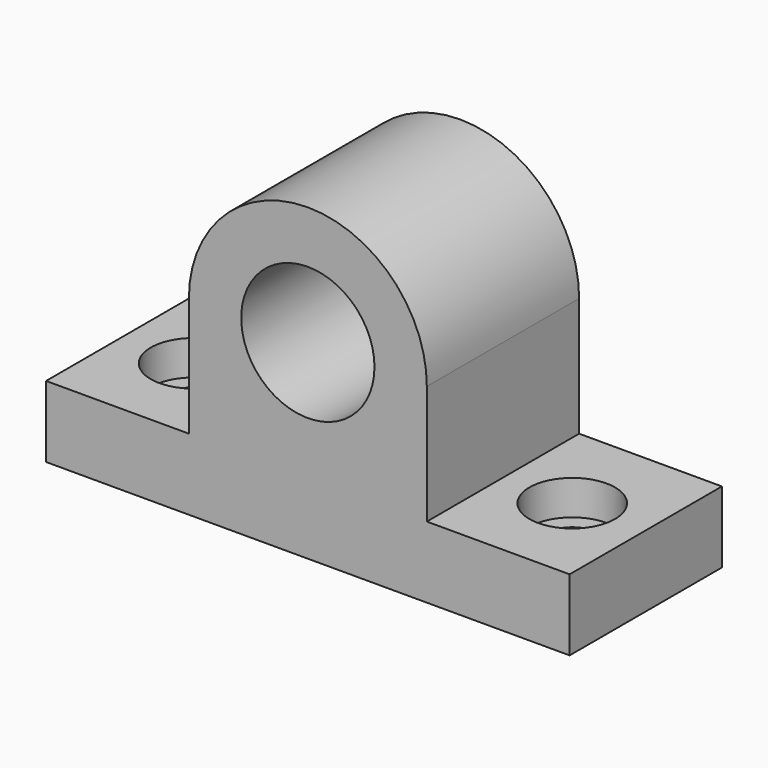
from build123d import *

# Parameters (mm, degrees)
F0_R     = 14
F1_DEPTH = 40
F2_R     = 9
F2_R_2   = 5.5
F3_DEPTH = 7.3
F4_DEPTH = 25


with BuildPart() as f1:
    # F0 (on Front) → F1 (new body)
    with BuildSketch(Plane.XZ):
        with BuildLine():
            Line((-14.553575, -34.285714), (-14.553575, -9.285714))
            ThreePointArc((-14.553575, -9.285714), (-39.553575, 15.714286), (-64.553575, -9.285714))
            Line((-64.553575, -9.285714), (-64.553575, -34.285714))
            Line((-64.553575, -34.285714), (-94.553575, -34.285714))
            Line((-94.553575, -34.285714), (-94.553575, -49.285714))
            Line((-94.553575, -49.285714), (15.446425, -49.285714))
            Line((15.446425, -49.285714), (15.446425, -34.285714))
            Line((15.446425, -34.285714), (-14.553575, -34.285714))
        make_face()
        with Locations((-39.553575, -9.285714)):
            Circle(F0_R, mode=Mode.SUBTRACT)
    extrude(amount=F1_DEPTH)

    # F2 (on face) → F3 (cut)
    with BuildSketch(Plane.XY.offset(-34.285714)):
        with Locations((-79.553575, -20)):
            Circle(F2_R)
        with Locations((-79.553575, -20)):
            Circle(F2_R_2, mode=Mode.SUBTRACT)
        with Locations((0, -20)):
            Circle(F2_R)
        with Locations((0, -20)):
            Circle(F2_R_2, mode=Mode.SUBTRACT)
    extrude(amount=-F3_DEPTH, mode=Mode.SUBTRACT)

    # F2 (on face) → F4 (cut)
    with BuildSketch(Plane.XY.offset(-34.285714)):
        with Locations((-79.553575, -20)):
            Circle(F2_R_2)
        with Locations((0, -20)):
            Circle(F2_R_2)
    extrude(amount=-F4_DEPTH, mode=Mode.SUBTRACT)


solid = f1.part
